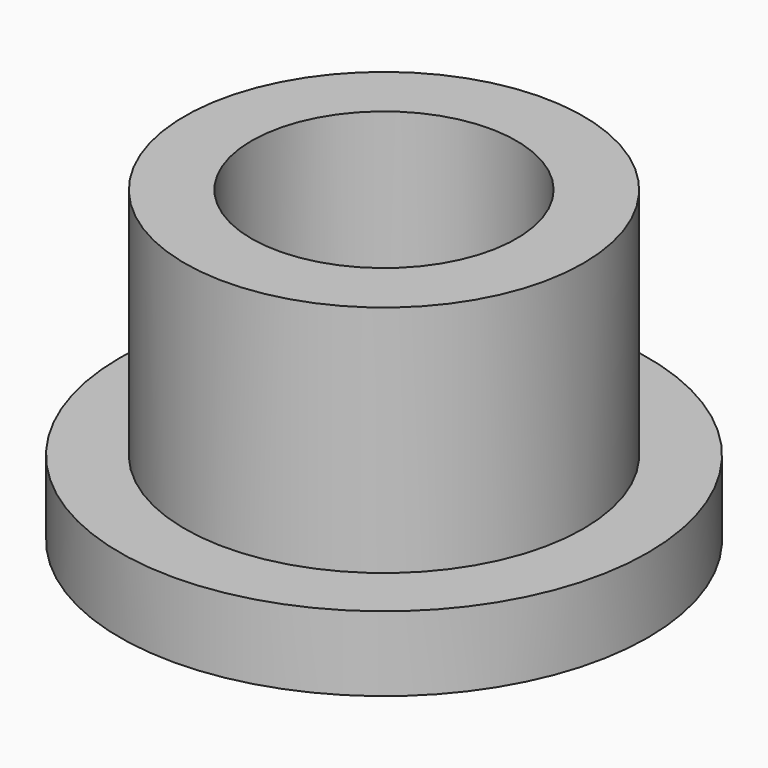
from build123d import *

# Parameters (mm, degrees)
F0_R     = 6.325
F2_DEPTH = 1.79
F1_R     = 4.775
F3_DEPTH = 7.39
F5_D     = 6.35


with BuildPart() as f2:
    # F0 (on Top) → F2 (new body)
    with BuildSketch(Plane.XY):
        Circle(F0_R)
    extrude(amount=F2_DEPTH)

    # F1 (on Top) → F3 (join)
    with BuildSketch(Plane.XY):
        Circle(F1_R)
    extrude(amount=F3_DEPTH)

    # F5 (through all)
    with Locations(Plane(origin=(0, 0, 0), x_dir=(1, 0, 0), z_dir=(0, 0, -1))):
        with Locations((0, 0)):
            Hole(F5_D / 2)


solid = f2.part
